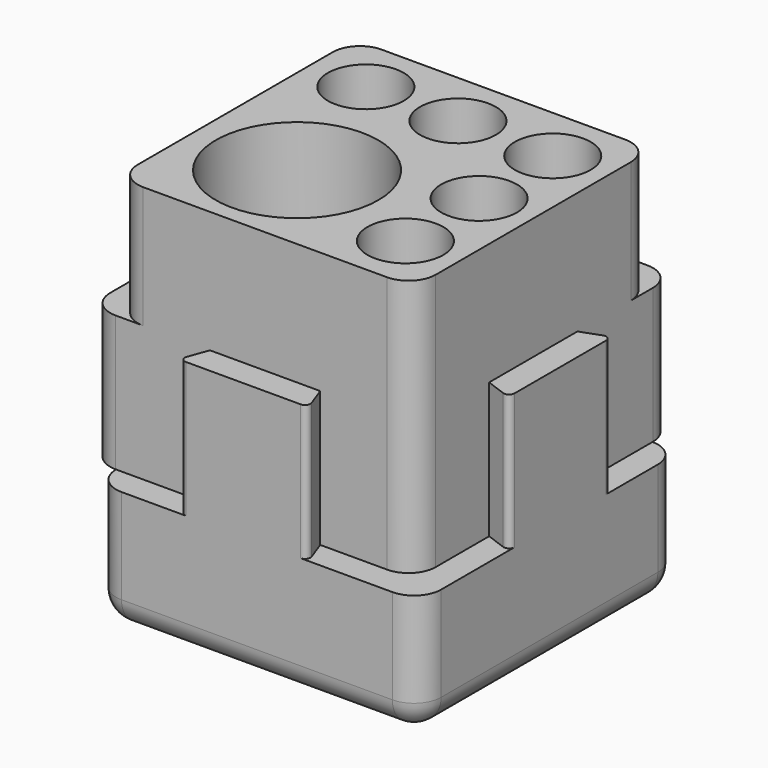
from build123d import *

# Parameters (mm, degrees)
F1_DEPTH = 35
F0_W     = 5.1
F0_H     = 5.1
F2_DEPTH = 12.5
F4_DEPTH = 22.5
F5_R     = 5
F6_R     = 1
F7_R     = 7
F7_R_2   = 15
F8_DEPTH = 65


with BuildPart() as f1:
    # F0 (on Top) → F1 (new body, symmetric)
    with BuildSketch(Plane.XY):
        Polygon((-11.9, 27.5), (-27.5, 27.5), (-27.5, 12.3), (-27.5, -11.9), (-27.5, -27.5), (-10.1801488287, -27.5), (10.1801488287, -27.5), (27.5, -27.5), (27.5, -10.1801488287), (27.5, 10.1801488287), (27.5, 27.5), (12.3, 27.5), align=None)
    extrude(amount=F1_DEPTH, both=True)

    # F0 (on Top) → F2 (join, symmetric)
    with BuildSketch(Plane.XY):
        Polygon((-27.5, 12.3), (-27.5, 27.5), (-32.6, 27.5), (-32.6, 10.4437518052), align=None)
        Polygon((-27.5, -27.5), (-27.5, -11.9), (-32.6, -10.0437518052), (-32.6, -27.5), align=None)
        Polygon((-27.5, 32.6), (-27.5, 27.5), (-11.9, 27.5), (-10.0437518052, 32.6), align=None)
        Polygon((10.4437518052, 32.6), (12.3, 27.5), (27.5, 27.5), (27.5, 32.6), align=None)
        Polygon((10.1801488287, -27.5), (-10.1801488287, -27.5), (-12, -32.5), (12, -32.5), align=None)
        Polygon((32.5, 12), (27.5, 10.1801488287), (27.5, -10.1801488287), (32.5, -12), align=None)
        with Locations((-30.05, 30.05)):
            Rectangle(F0_W, F0_H)
    extrude(amount=F2_DEPTH, both=True)

    # F3 (on face) → F4 (join, through all)
    with BuildSketch(Plane(origin=(0, 0, -35), x_dir=(1, 0, 0), z_dir=(0, 0, -1))):
        Polygon((-27.5, 32.5), (-27.5, 27.5), (27.5, 27.5), (27.5, -27.5), (32.5, -27.5), (32.5, 32.5), align=None)
    extrude(amount=-F4_DEPTH)

    # F5
    f5_edges = [f1.edges().sort_by_distance(p)[0] for p in [
        (-32.6, 32.6, 0),
        (-27.5, 27.5, 23.75),
        (-27.5, 27.5, -23.75),
        (-32.6, -27.5, 0),
        (-27.5, -32.5, -23.75),
        (32.5, -32.5, -23.75),
        (27.5, -27.5, 11.25),
        (32.5, 27.5, -23.75),
        (27.5, 32.6, 0),
        (27.5, 27.5, 23.75),
        (32.5, -2.5, -35),
        (2.5, -32.5, -35),
        (-27.5, -2.5, -35),
        (2.5, 27.5, -35),
        (-27.5, -27.5, 23.75),
    ]]
    fillet(f5_edges, radius=F5_R)

    # F6
    f6_edges = [f1.edges().sort_by_distance(p)[0] for p in [
        (12, -32.5, 0),
        (-12, -32.5, 0),
        (32.5, -12, 0),
        (32.5, 12, 0),
        (10.443752, 32.6, 0),
        (-10.043752, 32.6, 0),
        (-32.6, 10.443752, 0),
        (-32.6, -10.043752, 0),
    ]]
    fillet(f6_edges, radius=F6_R)

    # F7 (on face) → F8 (cut)
    with BuildSketch(Plane.XY.offset(35)):
        with Locations((17.5, 17)):
            Circle(F7_R)
        with Locations((17.5, 0)):
            Circle(F7_R)
        with Locations((17.5, -17)):
            Circle(F7_R)
        with Locations((-17, 17)):
            Circle(F7_R)
        with Locations((0, 17)):
            Circle(F7_R)
        with Locations((-8.5, -9.5)):
            Circle(F7_R_2)
    extrude(amount=-F8_DEPTH, mode=Mode.SUBTRACT)


solid = f1.part
